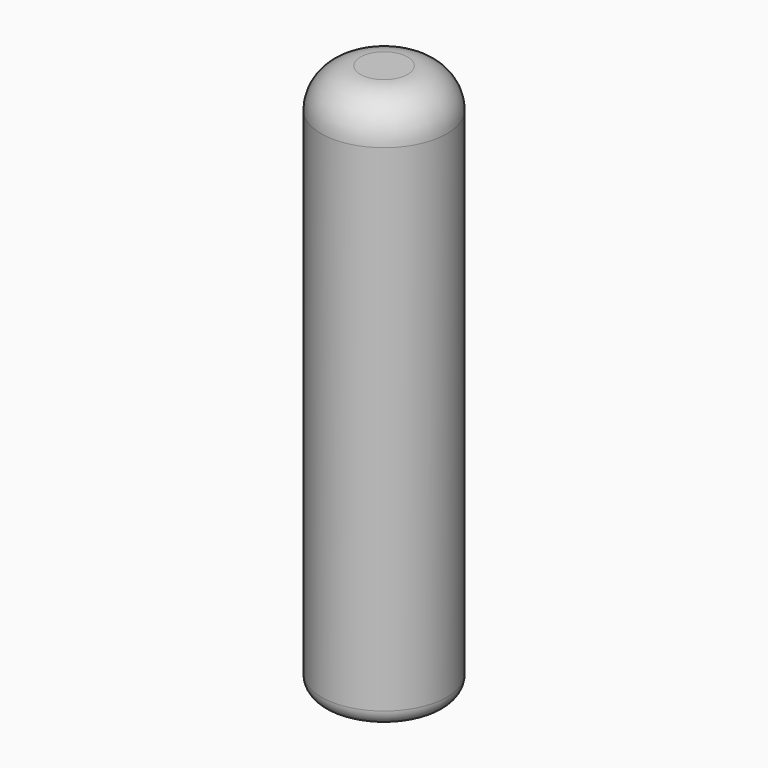
from build123d import *

# Parameters (mm, degrees)
F2_R = 2.5
F3_R = 1


with BuildPart() as f1:
    # F0 (on Front) → F1 (revolve)
    with BuildSketch(Plane.XZ):
        with BuildLine():
            add(Edge.make_bspline(
                [(0, 18.840477), (2.666021, 9.358742), (2.056838, 2.173811), (1.95, -11.159523)],
                knots=[0, 0, 0, 0, 30.063308, 30.063308, 30.063308, 30.063308], degree=3))
            Line((1.95, -11.159523), (4, -11.159523))
            Line((4, -11.159523), (4, 23.840477))
            Line((4, 23.840477), (0, 23.840477))
            Line((0, 23.840477), (0, 18.840477))
        make_face()
    revolve(axis=Axis((0, 0, 3.840477), (0, 0, 1)))

    # F2
    f2_edges = [f1.edges().sort_by_distance(p)[0] for p in [
        (-4, 0, 23.840477),
    ]]
    fillet(f2_edges, radius=F2_R)

    # F3
    f3_edges = [f1.edges().sort_by_distance(p)[0] for p in [
        (-4, 0, -11.159523),
    ]]
    fillet(f3_edges, radius=F3_R)


solid = f1.part
